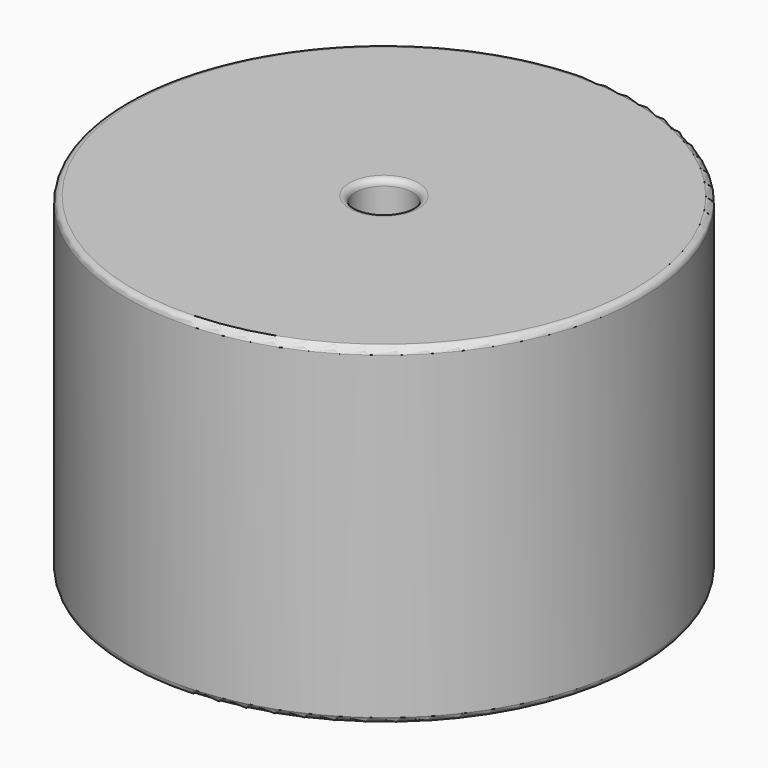
from build123d import *

# Parameters (mm, degrees)
SKETCH_R          = 20.32
SKETCH_R_2        = 2.225
PAD_DEPTH         = 26.16
FILLET_R          = 0.5
SKETCH001_R       = 0.35
PAD001_DEPTH      = 13.08
PAD001_DEPTH_BACK = 3.5


with BuildPart() as fillet_body:
    # Sketch → Pad (new body)
    with BuildSketch(Plane.XY.offset(0.1)):
        with Locations((13.59, 0)):
            Circle(SKETCH_R)
        with Locations((13.59, 0)):
            Circle(SKETCH_R_2, mode=Mode.SUBTRACT)
    extrude(amount=PAD_DEPTH)

    # Fillet
    fillet_edges = [fillet_body.edges().sort_by_distance(p)[0] for p in [
        (11.365, 0, 26.26),
        (-6.73, 0, 26.26),
        (-6.73, 0, 0.1),
    ]]
    fillet(fillet_edges, radius=FILLET_R)


with BuildPart() as obj1:
    # Sketch001 → Pad001 (new body, two sides)
    with BuildSketch(Plane.XY.offset(0.5)) as pad001_sk:
        Circle(SKETCH001_R)
        with Locations((27.18, 0)):
            Circle(SKETCH001_R)
    extrude(amount=PAD001_DEPTH)
    extrude(pad001_sk.sketch, amount=-PAD001_DEPTH_BACK)

    # obj1: union Fillet body
    add(fillet_body.part)


solid = obj1.part
